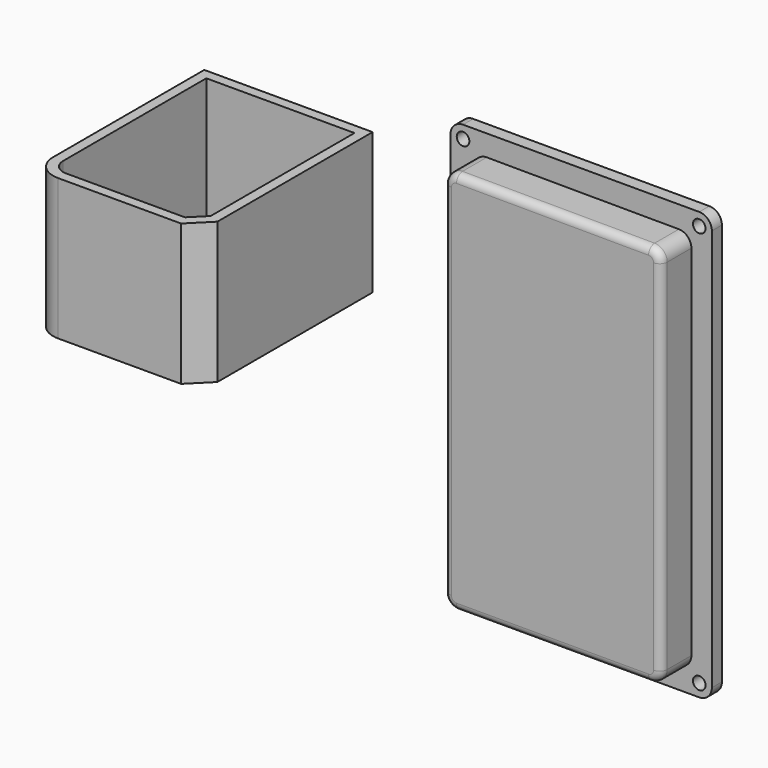
from build123d import *

# Parameters (mm, degrees)
F1_DEPTH = 12.7
F2_DEPTH = 3.175
F0_W     = 42.4149371684
F0_H     = 35.5794732459
F3_D     = 3.175
F4_D     = 3.175
F5_R     = 1.905
F6_DEPTH = 50.8
F7_R     = 6.35
F8_SIZE  = 5.08
F9_T     = -2.54


with BuildPart() as f1:
    # F0 (on Front) → F1 (new body)
    with BuildSketch(Plane.XZ):
        with BuildLine():
            ThreePointArc((-23.7898464417, 48.540072385), (-26.0431820434, 47.6146840466), (-26.9776489586, 45.3650981968))
            Line((-26.9776489586, 45.3650981968), (-26.9776489586, -45.2139356256))
            ThreePointArc((-26.9776489586, -45.2139356256), (-26.0477129888, -47.4589996558), (-23.8026489586, -48.3889356256))
            Line((-23.8026489586, -48.3889356256), (24.6117726982, -48.3889356256))
            ThreePointArc((24.6117726982, -48.3889356256), (26.8568367284, -47.4589996558), (27.7867726982, -45.2139356256))
            Line((27.7867726982, -45.2139356256), (27.7867726982, 45.1698756804))
            ThreePointArc((27.7867726982, 45.1698756804), (26.8613585479, 47.4104087653), (24.624575215, 48.3448498686))
            Line((24.624575215, 48.3448498686), (-23.7898464417, 48.540072385))
        make_face()
    extrude(amount=F1_DEPTH)

    # F0 (on Front) → F2 (join)
    with BuildSketch(Plane.XZ):
        with BuildLine():
            Line((29.7649071634, 53.8527071476), (-29.7649071634, 53.8527071476))
            ThreePointArc((-29.7649071634, 53.8527071476), (-32.0099711936, 52.9227711779), (-32.9399071634, 50.6777071476))
            Line((-32.9399071634, 50.6777071476), (-32.9399071634, -50.6777071476))
            ThreePointArc((-32.9399071634, -50.6777071476), (-32.0099711936, -52.9227711779), (-29.7649071634, -53.8527071476))
            Line((-29.7649071634, -53.8527071476), (29.7649071634, -53.8527071476))
            ThreePointArc((29.7649071634, -53.8527071476), (32.0099711936, -52.9227711779), (32.9399071634, -50.6777071476))
            Line((32.9399071634, -50.6777071476), (32.9399071634, 50.6777071476))
            ThreePointArc((32.9399071634, 50.6777071476), (32.0099711936, 52.9227711779), (29.7649071634, 53.8527071476))
        make_face()
        with BuildLine():
            Line((-26.9776489586, -45.2139356256), (-26.9776489586, 45.3650981968))
            ThreePointArc((-26.9776489586, 45.3650981968), (-26.0431820434, 47.6146840466), (-23.7898464417, 48.540072385))
            Line((-23.7898464417, 48.540072385), (24.624575215, 48.3448498686))
            ThreePointArc((24.624575215, 48.3448498686), (26.8613585479, 47.4104087653), (27.7867726982, 45.1698756804))
            Line((27.7867726982, 45.1698756804), (27.7867726982, -45.2139356256))
            ThreePointArc((27.7867726982, -45.2139356256), (26.8568367284, -47.4589996558), (24.6117726982, -48.3889356256))
            Line((24.6117726982, -48.3889356256), (-23.8026489586, -48.3889356256))
            ThreePointArc((-23.8026489586, -48.3889356256), (-26.0477129888, -47.4589996558), (-26.9776489586, -45.2139356256))
        make_face(mode=Mode.SUBTRACT)
    extrude(amount=F2_DEPTH)

    # F3 (through all)
    with Locations(Plane(origin=(0, 0, 0), x_dir=(1, 0, 0), z_dir=(0, 1, 0))):
        with Locations((-29.7649071634, -50.6777071476)):
            Hole(F3_D / 2)

    # F4 (through all)
    with Locations(Plane(origin=(0, 0, 0), x_dir=(1, 0, 0), z_dir=(0, 1, 0))):
        with Locations((29.7649071634, -50.6777071476), (-29.7649071634, 50.6777071476), (29.7649071634, 50.6777071476)):
            Hole(F4_D / 2)

    # F5
    f5_edges = [f1.edges().sort_by_distance(p)[0] for p in [
        (26.861359, -12.7, 47.410409),
        (0.417364, -12.7, 48.442461),
        (-26.043182, -12.7, 47.614684),
        (-26.977649, -12.7, 0.075581),
        (-26.047713, -12.7, -47.459),
        (0.404562, -12.7, -48.388936),
        (26.856837, -12.7, -47.459),
        (27.786773, -12.7, -0.02203),
    ]]
    fillet(f5_edges, radius=F5_R)


with BuildPart() as f2:
    # F0 (on Front) → F2, piece 2 (new body)
    with BuildSketch(Plane.XZ):
        with Locations((-76.3040240854, 24.8881017324)):
            Rectangle(F0_W, F0_H)
    extrude(amount=F2_DEPTH)

    # F6 (add): a face of the model
    f6_faces = [f2.faces().sort_by_distance(p)[0] for p in [
        (-76.3040240854, -3.175, 24.8881017324),
    ]]
    extrude(f6_faces, amount=F6_DEPTH)

    # F7
    f7_edges = [f2.edges().sort_by_distance(p)[0] for p in [
        (-97.511493, -53.975, 24.888102),
    ]]
    fillet(f7_edges, radius=F7_R)

    # F8
    f8_edges = [f2.edges().sort_by_distance(p)[0] for p in [
        (-55.096556, -53.975, 24.888102),
    ]]
    chamfer(f8_edges, length=F8_SIZE)

    # F9
    f9_openings = [f2.faces().sort_by_distance(p)[0] for p in [
        (-76.339545, -26.746017, 42.677838),
    ]]
    offset(amount=F9_T, openings=f9_openings)


solid = Compound([f1.part, f2.part])
